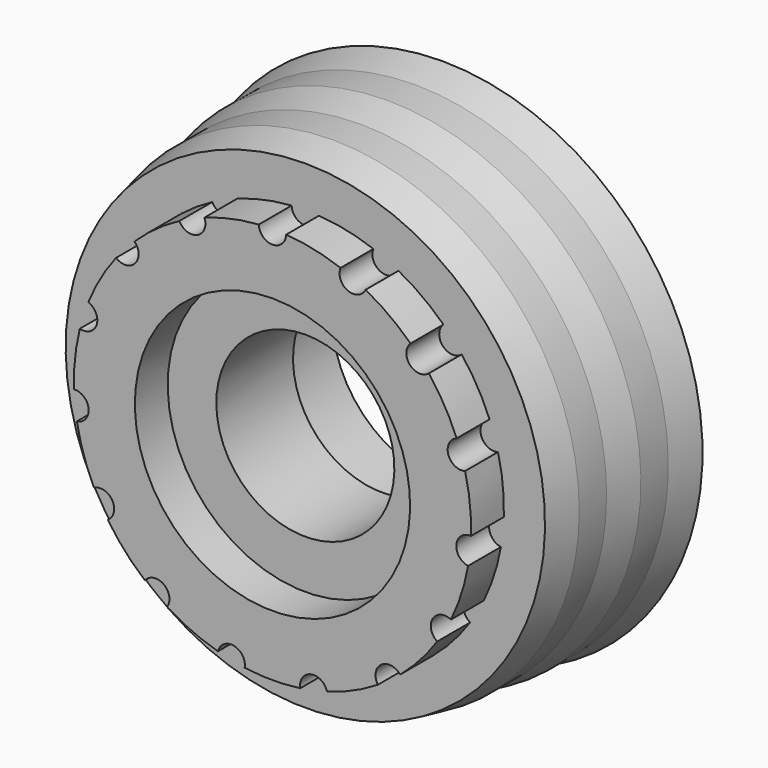
from build123d import *

# Parameters (mm, degrees)
F3_DEPTH = 3


with BuildPart() as f1:
    # F0 (on Right) → F1 (revolve)
    with BuildSketch(Plane.YZ):
        Polygon((0, 6.5), (7, 6.5), (7, 8.05), (12.5, 8.05), (12.5, 19), (10, 18.5), (7.5, 18.5), (5, 18), (2.5, 18), (0, 17.5), (0, 14.5), (-3, 14.5), (-3, 10.05), (0, 10.05), align=None)
    revolve(axis=Axis((0, 20.883844794, 0), (0, 1, 0)))

    # F2 (on face) → F3 (cut)
    with BuildSketch(Plane.XZ.offset(3)):
        with BuildLine():
            ThreePointArc((1, 14.4654761415), (0, 14.5), (-1, 14.4654761415))
            ThreePointArc((-1, 14.4654761415), (0, 13.4994042291), (1, 14.4654761415))
        make_face()
        with BuildLine():
            ThreePointArc((-4.9700937486, 13.6216066648), (-5.8976813246, 13.2464091358), (-6.7971846639, 12.8081333786))
            ThreePointArc((-6.7971846639, 12.8081333786), (-5.4907023597, 12.3323194143), (-4.9700937486, 13.6216066648))
        make_face()
        with BuildLine():
            ThreePointArc((-10.0808131363, 10.4224376473), (-10.7755999694, 9.7023937922), (-11.419074349, 8.9361479963))
            ThreePointArc((-11.419074349, 8.9361479963), (-10.0320123999, 9.0328645373), (-10.0808131363, 10.4224376473))
        make_face()
        with BuildLine():
            ThreePointArc((-13.4484683513, 5.4211344757), (-13.7903194863, 4.4807464184), (-14.0665023401, 3.5190214432))
            ThreePointArc((-14.0665023401, 3.5190214432), (-12.8386963582, 4.1715453207), (-13.4484683513, 5.4211344757))
        make_face()
        with BuildLine():
            ThreePointArc((-14.4907612129, -0.5175320961), (-14.4205674828, -1.5156627174), (-14.2817042864, -2.5065758869))
            ThreePointArc((-14.2817042864, -2.5065758869), (-13.4254530802, -1.4110719791), (-14.4907612129, -0.5175320961))
        make_face()
        with BuildLine():
            ThreePointArc((-13.0274698164, -6.366712667), (-12.5573683549, -7.25), (-12.0274698164, -8.0987634745))
            ThreePointArc((-12.0274698164, -8.0987634745), (-11.6908269983, -6.7497021145), (-13.0274698164, -6.366712667))
        make_face()
        with BuildLine():
            ThreePointArc((-9.3116105377, -11.1150307779), (-8.5228861582, -11.7307464184), (-7.693576549, -12.2906012825))
            ThreePointArc((-7.693576549, -12.2906012825), (-7.9347507206, -10.9212474353), (-9.3116105377, -11.1150307779))
        make_face()
        with BuildLine():
            ThreePointArc((-3.9856892038, -13.9414590905), (-3.0147195169, -14.1831402106), (-2.0293940023, -14.3572824721))
            ThreePointArc((-2.0293940023, -14.3572824721), (-2.8066839583, -13.204409858), (-3.9856892038, -13.9414590905))
        make_face()
        with BuildLine():
            ThreePointArc((2.0293940023, -14.3572824721), (3.0147195169, -14.1831402106), (3.9856892038, -13.9414590905))
            ThreePointArc((3.9856892038, -13.9414590905), (2.8066839583, -13.204409858), (2.0293940023, -14.3572824721))
        make_face()
        with BuildLine():
            ThreePointArc((7.693576549, -12.2906012825), (8.5228861582, -11.7307464184), (9.3116105377, -11.1150307779))
            ThreePointArc((9.3116105377, -11.1150307779), (7.9347507206, -10.9212474353), (7.693576549, -12.2906012825))
        make_face()
        with BuildLine():
            ThreePointArc((12.0274698164, -8.0987634745), (12.5573683549, -7.25), (13.0274698164, -6.366712667))
            ThreePointArc((13.0274698164, -6.366712667), (11.6908269983, -6.7497021145), (12.0274698164, -8.0987634745))
        make_face()
        with BuildLine():
            ThreePointArc((14.2817042864, -2.5065758869), (14.4205674828, -1.5156627174), (14.4907612129, -0.5175320961))
            ThreePointArc((14.4907612129, -0.5175320961), (13.4254530802, -1.4110719791), (14.2817042864, -2.5065758869))
        make_face()
        with BuildLine():
            ThreePointArc((14.0665023401, 3.5190214432), (13.7903194863, 4.4807464184), (13.4484683513, 5.4211344757))
            ThreePointArc((13.4484683513, 5.4211344757), (12.8386963582, 4.1715453207), (14.0665023401, 3.5190214432))
        make_face()
        with BuildLine():
            ThreePointArc((11.419074349, 8.9361479963), (10.7755999694, 9.7023937922), (10.0808131363, 10.4224376473))
            ThreePointArc((10.0808131363, 10.4224376473), (10.0320123999, 9.0328645373), (11.419074349, 8.9361479963))
        make_face()
        with BuildLine():
            ThreePointArc((6.7971846639, 12.8081333786), (5.8976813246, 13.2464091358), (4.9700937486, 13.6216066648))
            ThreePointArc((4.9700937486, 13.6216066648), (5.4907023597, 12.3323194143), (6.7971846639, 12.8081333786))
        make_face()
    extrude(amount=-F3_DEPTH, mode=Mode.SUBTRACT)


solid = f1.part
